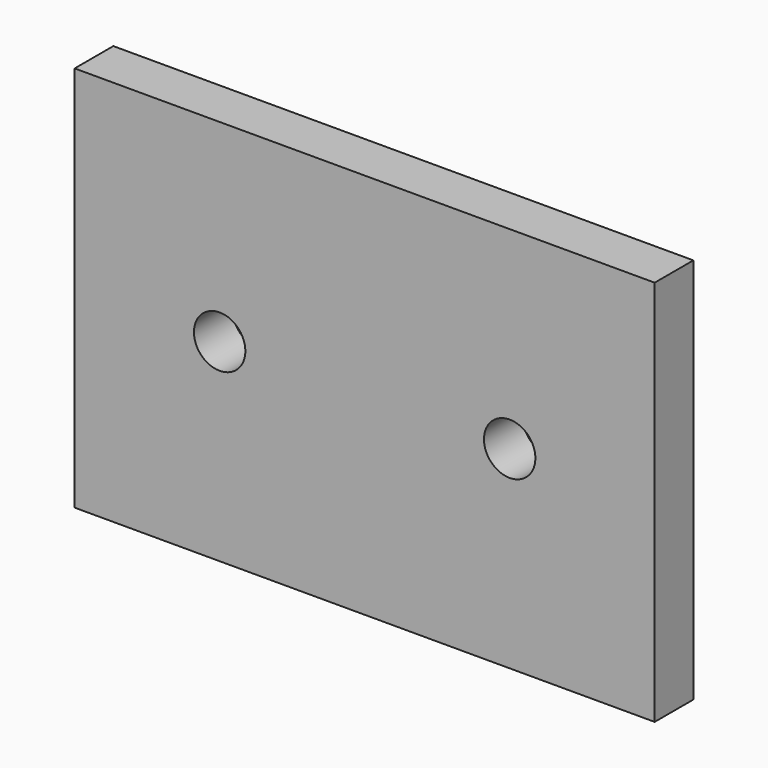
from build123d import *

# Parameters (mm, degrees)
F0_W     = 76.2
F0_H     = 50.8
F0_R     = 3.3782
F1_DEPTH = 3.175


with BuildPart() as f1:
    # F0 (on Front) → F1 (new body, symmetric)
    with BuildSketch(Plane.XZ):
        Rectangle(F0_W, F0_H)
        with Locations((-19.05, 0)):
            Circle(F0_R, mode=Mode.SUBTRACT)
        with Locations((19.05, 0)):
            Circle(F0_R, mode=Mode.SUBTRACT)
    extrude(amount=F1_DEPTH, both=True)


solid = f1.part
